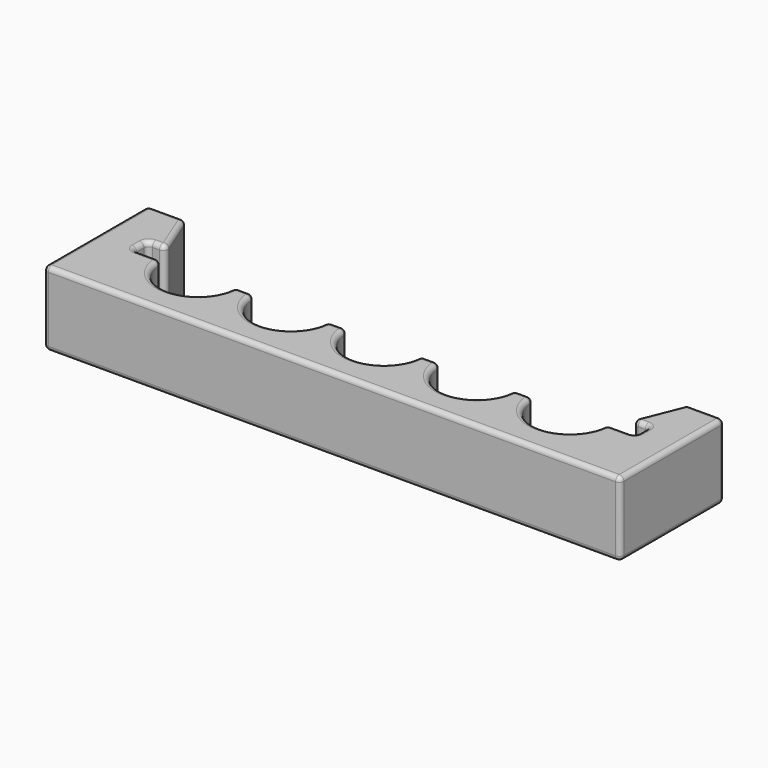
from build123d import *

# Parameters (mm, degrees)
F1_DEPTH = 8
F2_R     = 0.5


with BuildPart() as f1:
    # F0 (on Top) → F1 (new body)
    with BuildSketch(Plane.XY):
        with BuildLine():
            ThreePointArc((3.97523196, -0.4444444444), (0, -4), (-3.97523196, -0.4444444444))
            ThreePointArc((-3.97523196, -0.4444444444), (-4.1388026217, -0.1273220038), (-4.472135955, 0))
            Line((-4.472135955, 0), (-5.527864045, 0))
            ThreePointArc((-5.527864045, 0), (-5.8611973783, -0.1273220038), (-6.02476804, -0.4444444444))
            ThreePointArc((-6.02476804, -0.4444444444), (-10, -4), (-13.97523196, -0.4444444444))
            ThreePointArc((-13.97523196, -0.4444444444), (-14.1388026217, -0.1273220038), (-14.472135955, 0))
            Line((-14.472135955, 0), (-15.527864045, 0))
            ThreePointArc((-15.527864045, 0), (-15.8611973783, -0.1273220038), (-16.02476804, -0.4444444444))
            ThreePointArc((-16.02476804, -0.4444444444), (-20, -4), (-23.97523196, -0.4444444444))
            ThreePointArc((-23.97523196, -0.4444444444), (-24.1388026217, -0.1273220038), (-24.472135955, 0))
            Line((-24.472135955, 0), (-26.5, 0))
            ThreePointArc((-26.5, 0), (-26.8535533906, 0.1464466094), (-27, 0.5))
            Line((-27, 0.5), (-27, 1.5))
            ThreePointArc((-27, 1.5), (-26.8535533906, 1.8535533906), (-26.5, 2))
            Line((-26.5, 2), (-25.7385164807, 2))
            ThreePointArc((-25.7385164807, 2), (-25.3244828655, 2.2196855953), (-25.2742781353, 2.6856953382))
            Line((-25.2742781353, 2.6856953382), (-26.8742781353, 6.6856953382))
            ThreePointArc((-26.8742781353, 6.6856953382), (-27.0582020761, 6.9140336152), (-27.3385164807, 7))
            Line((-27.3385164807, 7), (-30.5, 7))
            ThreePointArc((-30.5, 7), (-30.8535533906, 6.8535533906), (-31, 6.5))
            Line((-31, 6.5), (-31, 0))
            Line((-31, 0), (-31, -6.5))
            ThreePointArc((-31, -6.5), (-30.8535533906, -6.8535533906), (-30.5, -7))
            Line((-30.5, -7), (30.5, -7))
            ThreePointArc((30.5, -7), (30.8535533906, -6.8535533906), (31, -6.5))
            Line((31, -6.5), (31, 0))
            Line((31, 0), (31, 6.5))
            ThreePointArc((31, 6.5), (30.8535533906, 6.8535533906), (30.5, 7))
            Line((30.5, 7), (27.3385164807, 7))
            ThreePointArc((27.3385164807, 7), (27.0582020761, 6.9140336152), (26.8742781353, 6.6856953382))
            Line((26.8742781353, 6.6856953382), (25.2742781353, 2.6856953382))
            ThreePointArc((25.2742781353, 2.6856953382), (25.3244828655, 2.2196855953), (25.7385164807, 2))
            Line((25.7385164807, 2), (26.5, 2))
            ThreePointArc((26.5, 2), (26.8535533906, 1.8535533906), (27, 1.5))
            Line((27, 1.5), (27, 0.5))
            ThreePointArc((27, 0.5), (26.8535533906, 0.1464466094), (26.5, 0))
            Line((26.5, 0), (24.472135955, 0))
            ThreePointArc((24.472135955, 0), (24.1388026217, -0.1273220038), (23.97523196, -0.4444444444))
            ThreePointArc((23.97523196, -0.4444444444), (20, -4), (16.02476804, -0.4444444444))
            ThreePointArc((16.02476804, -0.4444444444), (15.8611973783, -0.1273220038), (15.527864045, 0))
            Line((15.527864045, 0), (14.472135955, 0))
            ThreePointArc((14.472135955, 0), (14.1388026217, -0.1273220038), (13.97523196, -0.4444444444))
            ThreePointArc((13.97523196, -0.4444444444), (10, -4), (6.02476804, -0.4444444444))
            ThreePointArc((6.02476804, -0.4444444444), (5.8611973783, -0.1273220038), (5.527864045, 0))
            Line((5.527864045, 0), (4.472135955, 0))
            ThreePointArc((4.472135955, 0), (4.1388026217, -0.1273220038), (3.97523196, -0.4444444444))
        make_face()
        with BuildLine():
            ThreePointArc((-31, 6.5), (-30.8535533906, 6.8535533906), (-30.5, 7))
            Line((-30.5, 7), (-31, 7))
            Line((-31, 7), (-31, 6.5))
        make_face()
        with BuildLine():
            Line((31, 7), (30.5, 7))
            ThreePointArc((30.5, 7), (30.8535533906, 6.8535533906), (31, 6.5))
            Line((31, 6.5), (31, 7))
        make_face()
    extrude(amount=F1_DEPTH)

    # F2
    f2_edges = [f1.edges().sort_by_distance(p)[0] for p in [
        (31, -6.5, 4),
        (31, 7, 4),
        (31, 0.25, 0),
        (31, 0.25, 8),
        (26.074278, 4.685695, 8),
        (25.324483, 2.219686, 8),
        (26.119258, 2, 8),
        (26.853553, 1.853553, 8),
        (27, 1, 8),
        (26.853553, 0.146447, 8),
        (25.486068, 0, 8),
        (24.138803, -0.127322, 8),
        (20, -4, 8),
        (15.861197, -0.127322, 8),
        (15, 0, 8),
        (14.138803, -0.127322, 8),
        (10, -4, 8),
        (5.861197, -0.127322, 8),
        (5, 0, 8),
        (4.138803, -0.127322, 8),
        (0, -4, 8),
        (-4.138803, -0.127322, 8),
        (-5, 0, 8),
        (-5.861197, -0.127322, 8),
        (-10, -4, 8),
        (-14.138803, -0.127322, 8),
        (-15, 0, 8),
        (-15.861197, -0.127322, 8),
        (-20, -4, 8),
        (-24.138803, -0.127322, 8),
        (-25.486068, 0, 8),
        (-26.853553, 0.146447, 8),
        (-27, 1, 8),
        (-26.853553, 1.853553, 8),
        (-26.119258, 2, 8),
        (-25.324483, 2.219686, 8),
        (-26.074278, 4.685695, 8),
        (-27.058202, 6.914034, 8),
        (-29.169258, 7, 8),
        (-31, 0.25, 8),
        (-30.853553, -6.853553, 8),
        (0, -7, 8),
        (30.853553, -6.853553, 8),
        (29.169258, 7, 8),
        (27.058202, 6.914034, 8),
        (26.074278, 4.685695, 0),
        (25.324483, 2.219686, 0),
        (26.119258, 2, 0),
        (26.853553, 1.853553, 0),
        (27, 1, 0),
        (26.853553, 0.146447, 0),
        (25.486068, 0, 0),
        (24.138803, -0.127322, 0),
        (20, -4, 0),
        (15.861197, -0.127322, 0),
        (15, 0, 0),
        (14.138803, -0.127322, 0),
        (10, -4, 0),
        (5.861197, -0.127322, 0),
        (5, 0, 0),
        (4.138803, -0.127322, 0),
        (0, -4, 0),
        (-4.138803, -0.127322, 0),
        (-5, 0, 0),
        (-5.861197, -0.127322, 0),
        (-10, -4, 0),
        (-14.138803, -0.127322, 0),
        (-15, 0, 0),
        (-15.861197, -0.127322, 0),
        (-20, -4, 0),
        (-24.138803, -0.127322, 0),
        (-25.486068, 0, 0),
        (-26.853553, 0.146447, 0),
        (-27, 1, 0),
        (-26.853553, 1.853553, 0),
        (-26.119258, 2, 0),
        (-25.324483, 2.219686, 0),
        (-26.074278, 4.685695, 0),
        (-27.058202, 6.914034, 0),
        (-29.169258, 7, 0),
        (-31, 0.25, 0),
        (-30.853553, -6.853553, 0),
        (0, -7, 0),
        (30.853553, -6.853553, 0),
        (29.169258, 7, 0),
        (27.058202, 6.914034, 0),
        (-31, 7, 4),
        (-31, -6.5, 4),
    ]]
    fillet(f2_edges, radius=F2_R)


solid = f1.part
